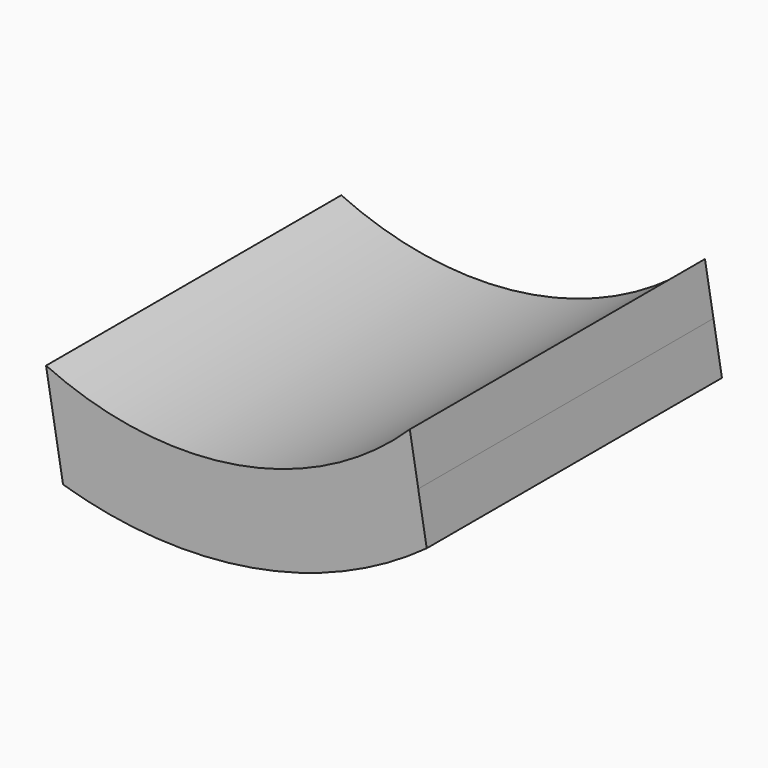
from build123d import *

# Parameters (mm, degrees)
F1_DEPTH = 22


with BuildPart() as f1:
    # F0 (on Front) → F1 (new body)
    with BuildSketch(Plane.XZ):
        with BuildLine():
            Line((-40.414657, 4.819267), (-39.909427, 1.862116))
            Line((-39.909427, 1.862116), (-39.404198, -1.095035))
            ThreePointArc((-39.404198, -1.095035), (-28.124924, -1.796725), (-17.718423, 2.609984))
            Line((-17.718423, 2.609984), (-18.223653, 5.567136))
            Line((-18.223653, 5.567136), (-18.728882, 8.524287))
            ThreePointArc((-18.728882, 8.524287), (-28.997953, 3.31318), (-40.414657, 4.819267))
        make_face()
    extrude(amount=F1_DEPTH)


solid = f1.part
